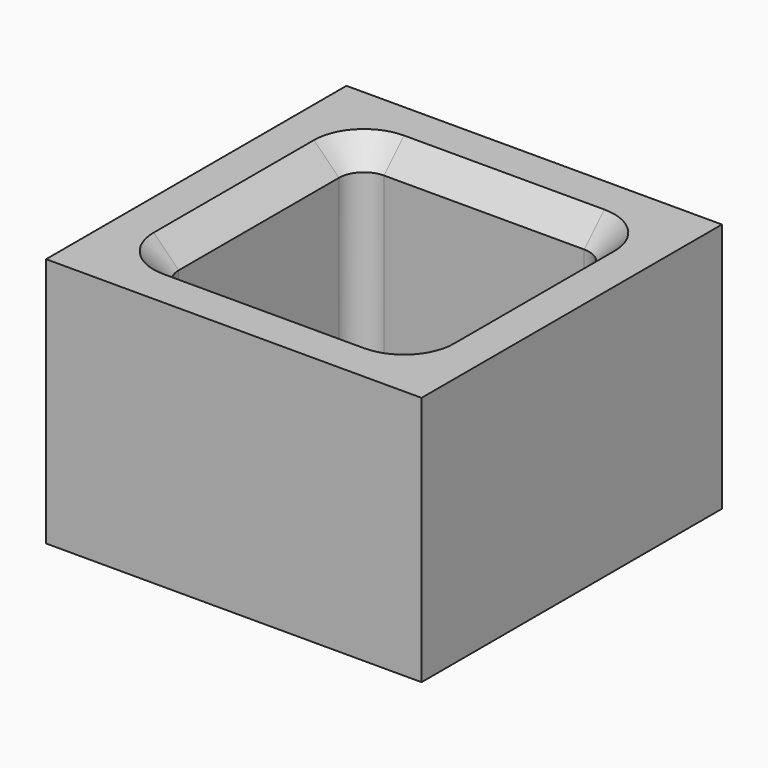
from build123d import *

# Parameters (mm, degrees)
F0_W     = 150
F0_H     = 150
F1_DEPTH = 100
F2_SIZE  = 10
F3_SIZE  = 10


with BuildPart() as f1:
    # F0 (on Top) → F1 (new body)
    with BuildSketch(Plane.XY):
        Rectangle(F0_W, F0_H)
        with BuildLine():
            ThreePointArc((50, -40), (47.071068, -47.071068), (40, -50))
            Line((40, -50), (-40, -50))
            ThreePointArc((-40, -50), (-47.071068, -47.071068), (-50, -40))
            Line((-50, -40), (-50, 40))
            ThreePointArc((-50, 40), (-47.071068, 47.071068), (-40, 50))
            Line((-40, 50), (40, 50))
            ThreePointArc((40, 50), (47.071068, 47.071068), (50, 40))
            Line((50, 40), (50, -40))
        make_face(mode=Mode.SUBTRACT)
    extrude(amount=-F1_DEPTH)

    # F2
    f2_edges = [f1.edges().sort_by_distance(p)[0] for p in [
        (-50, 0, 0),
    ]]
    chamfer(f2_edges, length=F2_SIZE)

    # F3
    f3_edges = [f1.edges().sort_by_distance(p)[0] for p in [
        (50, 0, -100),
    ]]
    chamfer(f3_edges, length=F3_SIZE)


solid = f1.part
